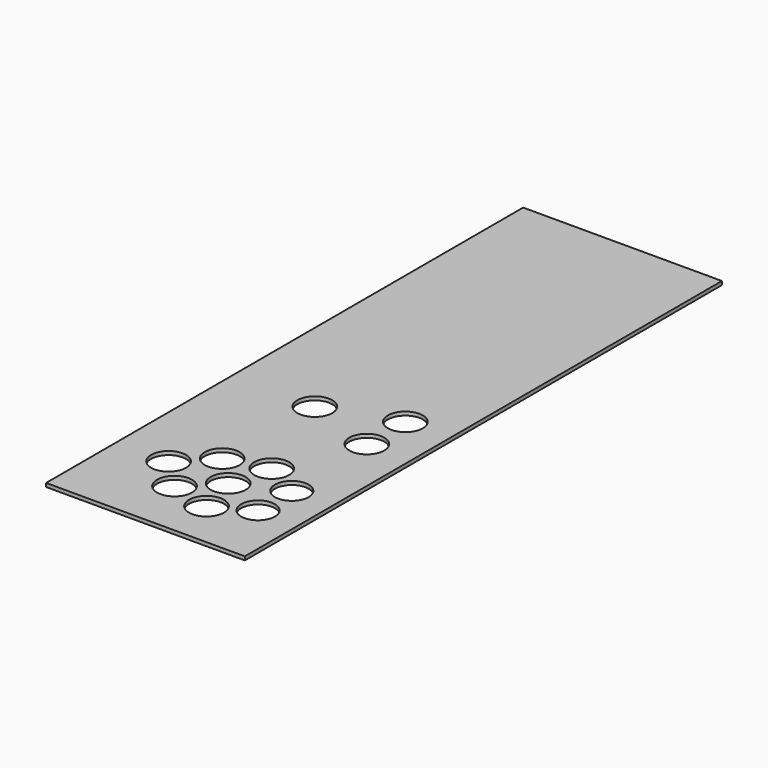
from build123d import *

# Parameters (mm, degrees)
PAD_DEPTH     = 3
SKETCH001_R   = 14.5
SKETCH001_R_2 = 14
POCKET_DEPTH  = 3.001


with BuildPart() as part:
    # Sketch → Pad (new body)
    with BuildSketch(Plane.XY):
        Polygon((0, 495), (165, 495), (165, 0), (0, 0), (0, 247.5), align=None)
    extrude(amount=PAD_DEPTH)

    # Sketch001 (on Face7 of Pad) → Pocket (cut, through all)
    with BuildSketch(Plane.XY.offset(3)):
        with Locations((69.128997, 192.43482)):
            Circle(SKETCH001_R)
        with Locations((43.063397, 73.261589)):
            Circle(SKETCH001_R)
        with Locations((67.812135, 98.010326)):
            Circle(SKETCH001_R)
        with Locations((67.812135, 48.512852)):
            Circle(SKETCH001_R)
        with Locations((92.560872, 73.261589)):
            Circle(SKETCH001_R)
        with Locations((101.619539, 107.068993)):
            Circle(SKETCH001_R)
        with Locations((101.619539, 39.454185)):
            Circle(SKETCH001_R)
        with Locations((128.285753, 172.43482)):
            Circle(SKETCH001_R)
        with Locations((128.285753, 212.43482)):
            Circle(SKETCH001_R)
        with Locations((131.362427, 90.761589)):
            Circle(SKETCH001_R_2)
        with Locations((131.362427, 55.761589)):
            Circle(SKETCH001_R_2)
    extrude(amount=-POCKET_DEPTH, mode=Mode.SUBTRACT)


solid = part.part
